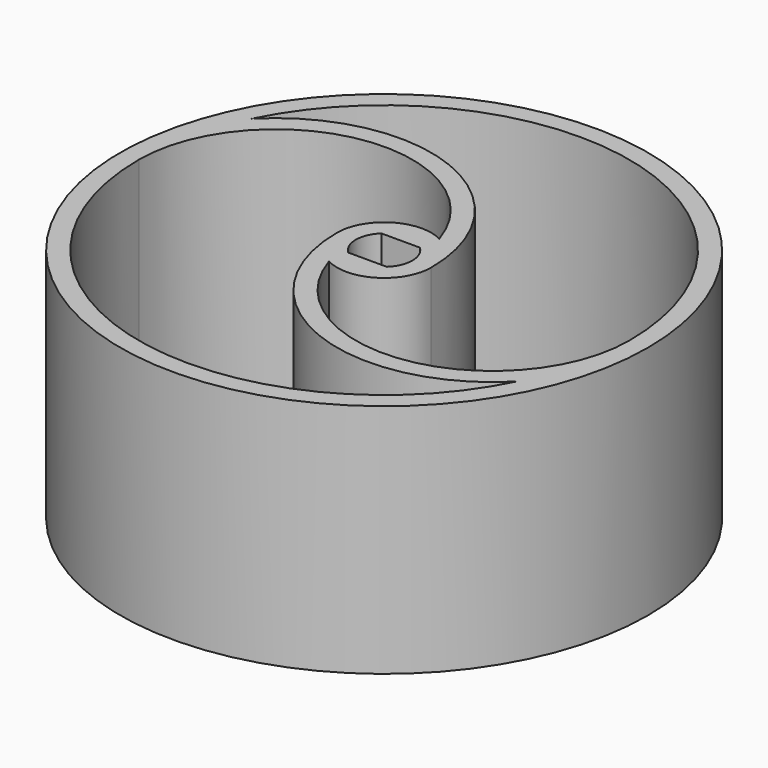
from build123d import *

# Parameters (mm, degrees)
F0_R     = 28
F1_DEPTH = 25
F2_W     = 4.079216
F2_H     = 4.4
F3_DEPTH = 30
F4_R     = 5
F4_R_2   = 3.5
F5_DEPTH = 1


with BuildPart() as f1:
    # F0 (on Top) → F1 (new body)
    with BuildSketch(Plane.XY):
        Circle(F0_R)
        with BuildLine():
            ThreePointArc((23.304348, -11.528546), (-5.919753, -25.317119), (-26, 0))
            ThreePointArc((-26, 0), (-13.745769, 14.325031), (2.304348, 4.437339))
            ThreePointArc((2.304348, 4.437339), (-2.595984, 4.273274), (-5, 0))
            ThreePointArc((-5, 0), (5.275923, -15.281062), (23.304348, -11.528546))
        make_face(mode=Mode.SUBTRACT)
        with BuildLine():
            ThreePointArc((-2.304348, -4.437339), (2.595984, -4.273274), (5, 0))
            ThreePointArc((5, 0), (-5.275923, 15.281062), (-23.304348, 11.528546))
            ThreePointArc((-23.304348, 11.528546), (5.919753, 25.317119), (26, 0))
            ThreePointArc((26, 0), (13.745769, -14.325031), (-2.304348, -4.437339))
        make_face(mode=Mode.SUBTRACT)
    extrude(amount=F1_DEPTH)

    # F2 (on Top) → F3 (cut)
    with BuildSketch(Plane.XY):
        with BuildLine():
            Line((-2.039608, -2.2), (-2.039608, 2.2))
            ThreePointArc((-2.039608, 2.2), (-3, 0), (-2.039608, -2.2))
        make_face()
        Rectangle(F2_W, F2_H)
        with BuildLine():
            ThreePointArc((2.039608, -2.2), (2.749438, -1.200245), (3, 0))
            ThreePointArc((3, 0), (2.749438, 1.200245), (2.039608, 2.2))
            Line((2.039608, 2.2), (2.039608, -2.2))
        make_face()
    extrude(amount=F3_DEPTH, mode=Mode.SUBTRACT)

    # F4 (on Top) → F5 (join)
    with BuildSketch(Plane.XY):
        Circle(F4_R)
        Circle(F4_R_2, mode=Mode.SUBTRACT)
    extrude(amount=-F5_DEPTH)


solid = f1.part
